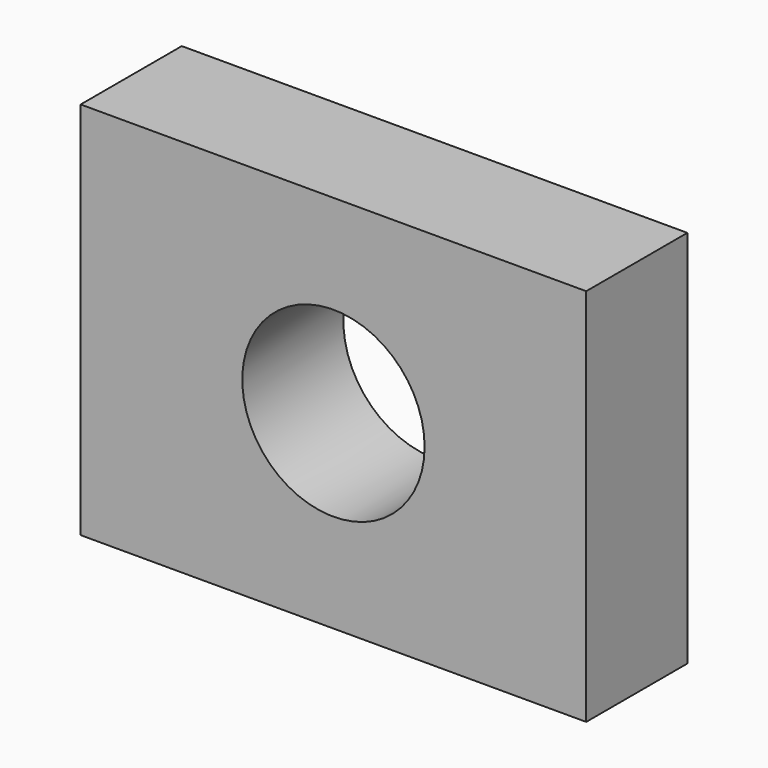
from build123d import *

# Parameters (mm, degrees)
F0_W     = 101.6
F0_H     = 76.2
F1_DEPTH = 12.7
F2_R     = 18.319797
F3_DEPTH = 25.401


with BuildPart() as f1:
    # F0 (on Front) → F1 (new body, symmetric)
    with BuildSketch(Plane.XZ):
        Rectangle(F0_W, F0_H)
    extrude(amount=F1_DEPTH, both=True)

    # F2 (on face) → F3 (cut, through all)
    with BuildSketch(Plane.XZ.offset(12.7)):
        Circle(F2_R)
    extrude(amount=-F3_DEPTH, mode=Mode.SUBTRACT)


solid = f1.part
